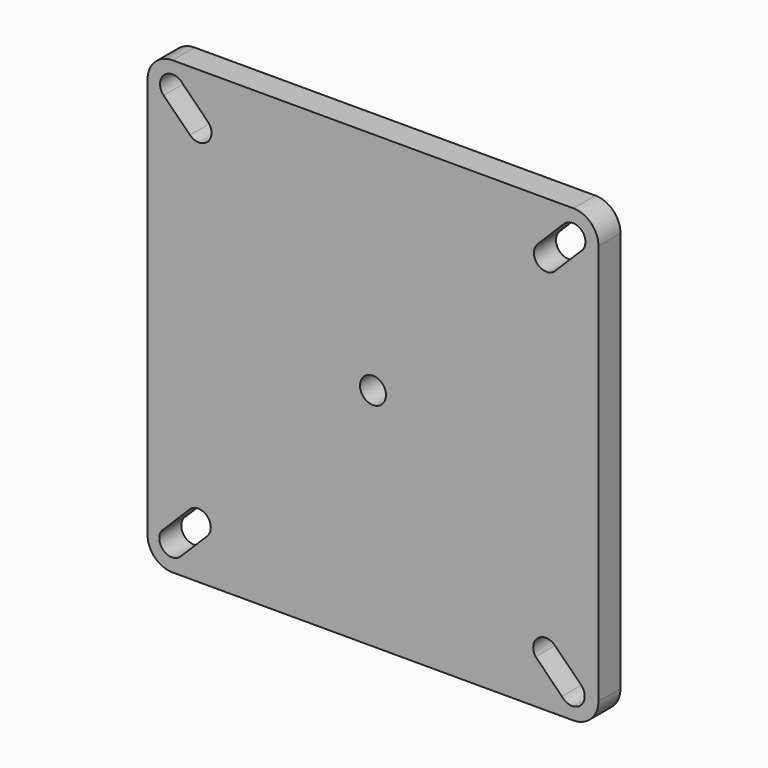
from build123d import *

# Parameters (mm, degrees)
F0_R     = 5.184156
F1_DEPTH = 11


with BuildPart() as f1:
    # F0 (on Front) → F1 (new body)
    with BuildSketch(Plane.XZ):
        with BuildLine():
            Line((80.246927, 90.00662), (-79.753073, 90.00662))
            ThreePointArc((-79.753073, 90.00662), (-86.824141, 87.077687), (-89.753073, 80.00662))
            Line((-89.753073, 80.00662), (-89.753073, -79.99338))
            ThreePointArc((-89.753073, -79.99338), (-86.824141, -87.064448), (-79.753073, -89.99338))
            Line((-79.753073, -89.99338), (80.246927, -89.99338))
            ThreePointArc((80.246927, -89.99338), (87.317995, -87.064448), (90.246927, -79.99338))
            Line((90.246927, -79.99338), (90.246927, 80.00662))
            ThreePointArc((90.246927, 80.00662), (87.317995, 87.077687), (80.246927, 90.00662))
        make_face()
        with BuildLine():
            Line((-65.980467, -72.797988), (-76.475281, -83.292802))
            ThreePointArc((-76.475281, -83.292802), (-83.852297, -83.007967), (-82.999491, -75.674876))
            Line((-82.999491, -75.674876), (-72.504681, -65.180067))
            ThreePointArc((-72.504681, -65.180067), (-65.716813, -65.969461), (-65.980467, -72.797988))
        make_face(mode=Mode.SUBTRACT)
        with BuildLine():
            Line((72.797988, -65.980467), (83.292802, -76.475281))
            ThreePointArc((83.292802, -76.475281), (83.007967, -83.852297), (75.674876, -82.999491))
            Line((75.674876, -82.999491), (65.180067, -72.504681))
            ThreePointArc((65.180067, -72.504681), (65.969461, -65.716813), (72.797988, -65.980467))
        make_face(mode=Mode.SUBTRACT)
        with Locations((0.246927, 0.00662)):
            Circle(F0_R, mode=Mode.SUBTRACT)
        with BuildLine():
            Line((-72.797988, 65.980467), (-83.292802, 76.475281))
            ThreePointArc((-83.292802, 76.475281), (-83.007967, 83.852297), (-75.674876, 82.999491))
            Line((-75.674876, 82.999491), (-65.180067, 72.504681))
            ThreePointArc((-65.180067, 72.504681), (-65.969461, 65.716813), (-72.797988, 65.980467))
        make_face(mode=Mode.SUBTRACT)
        with BuildLine():
            Line((65.980467, 72.797988), (76.475281, 83.292802))
            ThreePointArc((76.475281, 83.292802), (83.852297, 83.007967), (82.999491, 75.674876))
            Line((82.999491, 75.674876), (72.504681, 65.180067))
            ThreePointArc((72.504681, 65.180067), (65.716813, 65.969461), (65.980467, 72.797988))
        make_face(mode=Mode.SUBTRACT)
    extrude(amount=F1_DEPTH)


solid = f1.part
